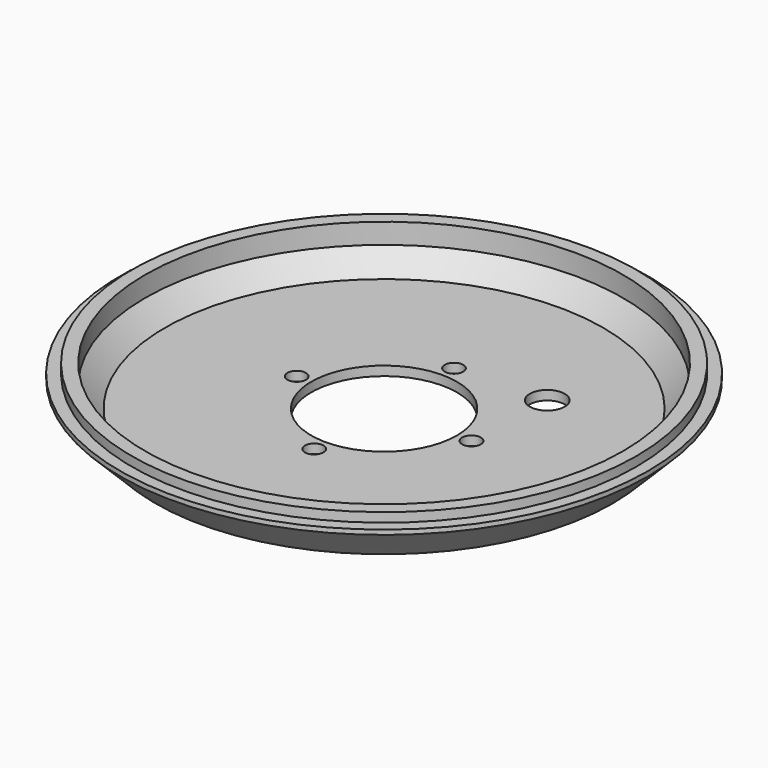
from build123d import *

# Parameters (mm, degrees)
SKETCH040_R      = 1.6
SKETCH040_R_2    = 12.5
SKETCH040_R_3    = 3
EXTRUDE004_DEPTH = 10


with BuildPart() as extrude004:
    # Sketch040 → Extrude004 (new body)
    with BuildSketch(Plane.XY.offset(-9.9)):
        with Locations((0, 15)):
            Circle(SKETCH040_R)
        with Locations((0, -15)):
            Circle(SKETCH040_R)
        with Locations((-15, 0)):
            Circle(SKETCH040_R)
        with Locations((15, 0)):
            Circle(SKETCH040_R)
        Circle(SKETCH040_R_2)
        with Locations((15.556349, 15.556349)):
            Circle(SKETCH040_R_3)
    extrude(amount=-EXTRUDE004_DEPTH)


with BuildPart() as cut:
    # Sketch039 → Revolve (revolve)
    with BuildSketch(Plane.XZ):
        Polygon((41, -6.5), (41, -3), (43.3, -3), (43.3, -4.6), (45.3, -4.6), (45.3, -5.4), (39.2, -11.5), (0, -11.5), (0, -9.9), (37.6, -9.9), align=None)
    revolve(axis=Axis((0, 0, 0), (0, 0, 1)))

    # Cut: cut Extrude004
    add(extrude004.part, mode=Mode.SUBTRACT)


solid = cut.part
